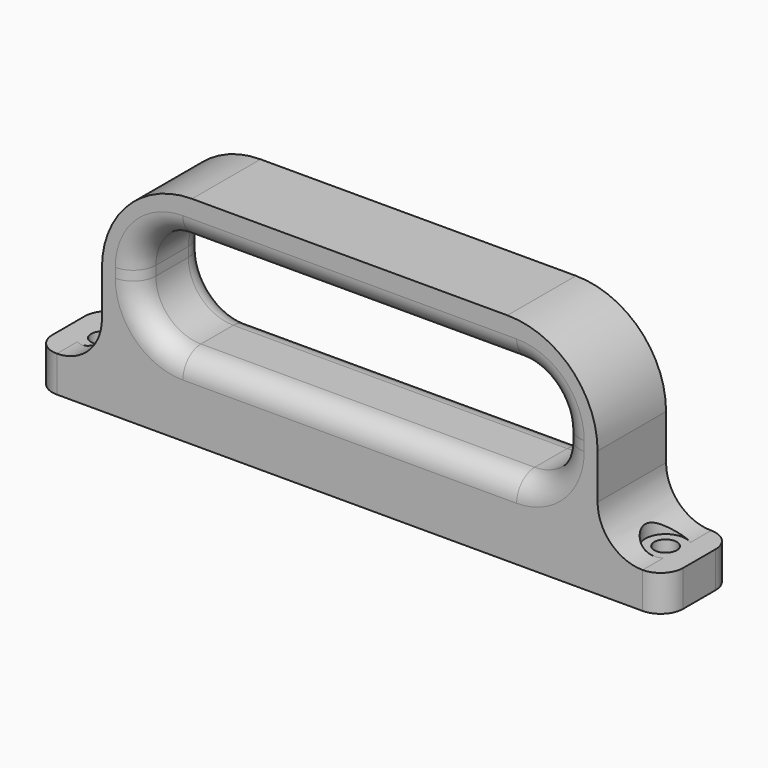
from build123d import *

# Parameters (mm, degrees)
F1_DEPTH = 19
F2_R     = 2.5
F3_DEPTH = 48.001
F4_START = 8
F2_R_2   = 4.5
F4_DEPTH = 40.001
F5_R     = 5
F6_R     = 5


with BuildPart() as f1:
    # F0 (on Front) → F1 (new body)
    with BuildSketch(Plane.XZ):
        with BuildLine():
            Line((-70, 8), (-70, 0))
            Line((-70, 0), (70, 0))
            Line((70, 0), (70, 8))
            Line((70, 8), (65, 8))
            ThreePointArc((65, 8), (57.9289321881, 10.9289321881), (55, 18))
            Line((55, 18), (55, 28))
            ThreePointArc((55, 28), (49.1421356237, 42.1421356237), (35, 48))
            Line((35, 48), (-35, 48))
            ThreePointArc((-35, 48), (-49.1421356237, 42.1421356237), (-55, 28))
            Line((-55, 28), (-55, 18))
            ThreePointArc((-55, 18), (-57.9289321881, 10.9289321881), (-65, 8))
            Line((-65, 8), (-70, 8))
        make_face()
        with BuildLine():
            ThreePointArc((47.0360852778, 26.9401988387), (44.1071530897, 19.8691310268), (37.0360852778, 16.9401988387))
            Line((37.0360852778, 16.9401988387), (-37.0360852778, 16.9401988387))
            ThreePointArc((-37.0360852778, 16.9401988387), (-44.1071530897, 19.8691310268), (-47.0360852778, 26.9401988387))
            Line((-47.0360852778, 26.9401988387), (-47.0360852778, 29.0598011613))
            ThreePointArc((-47.0360852778, 29.0598011613), (-44.1071530897, 36.1308689732), (-37.0360852778, 39.0598011613))
            Line((-37.0360852778, 39.0598011613), (37.0360852778, 39.0598011613))
            ThreePointArc((37.0360852778, 39.0598011613), (44.1071530897, 36.1308689732), (47.0360852778, 29.0598011613))
            Line((47.0360852778, 29.0598011613), (47.0360852778, 26.9401988387))
        make_face(mode=Mode.SUBTRACT)
    extrude(amount=F1_DEPTH)

    # F2 (on Top) → F3 (cut, through all)
    with BuildSketch(Plane.XY):
        with Locations((-62.5, -9.5)):
            Circle(F2_R)
        with Locations((62.5, -9.5)):
            Circle(F2_R)
    extrude(amount=F3_DEPTH, mode=Mode.SUBTRACT)

    # F2 (on Top) → F4 (cut)
    with BuildSketch(Plane.XY.offset(F4_START)):
        with Locations((-62.5, -9.5)):
            Circle(F2_R_2)
        with Locations((-62.5, -9.5)):
            Circle(F2_R, mode=Mode.SUBTRACT)
        with Locations((62.5, -9.5)):
            Circle(F2_R_2)
        with Locations((62.5, -9.5)):
            Circle(F2_R, mode=Mode.SUBTRACT)
    extrude(amount=F4_DEPTH, mode=Mode.SUBTRACT)

    # F5
    f5_edges = [f1.edges().sort_by_distance(p)[0] for p in [
        (0, -19, 16.940199),
        (0, 0, 16.940199),
    ]]
    fillet(f5_edges, radius=F5_R)

    # F6
    f6_edges = [f1.edges().sort_by_distance(p)[0] for p in [
        (70, -19, 4),
        (70, 0, 4),
        (-70, -19, 4),
        (-70, 0, 4),
    ]]
    fillet(f6_edges, radius=F6_R)


solid = f1.part
